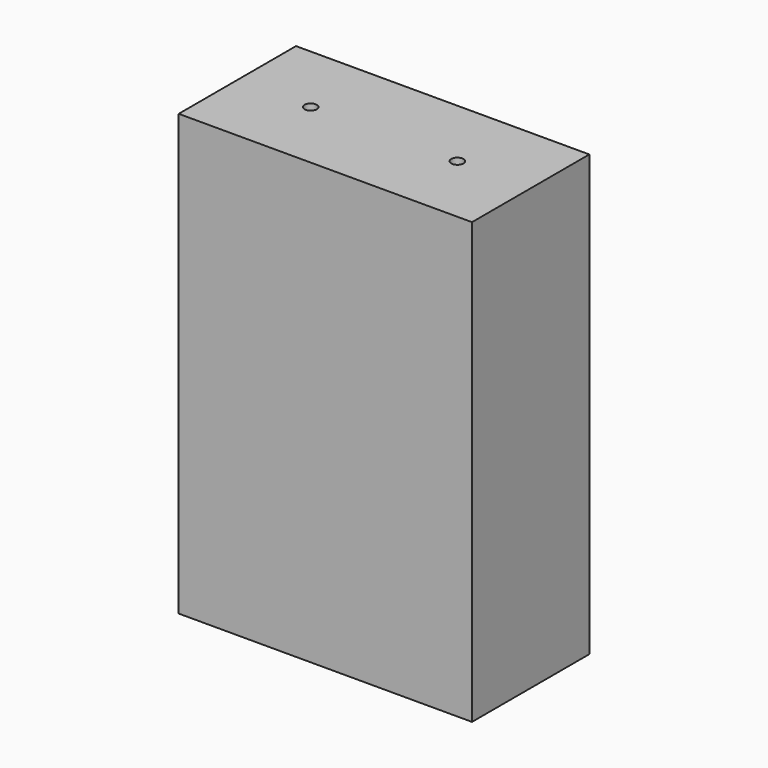
from build123d import *

# Parameters (mm, degrees)
F0_W     = 60
F0_H     = 30
F1_DEPTH = 90
F2_R     = 2.5
F3_DEPTH = 40
F4_R     = 1.25
F5_DEPTH = 40


with BuildPart() as f1:
    # F0 (on Top) → F1 (new body)
    with BuildSketch(Plane.XY):
        Rectangle(F0_W, F0_H)
    extrude(amount=F1_DEPTH)

    # F2 (on face) → F3 (cut)
    with BuildSketch(Plane(origin=(0, 0, 0), x_dir=(1, 0, 0), z_dir=(0, 0, -1))):
        Circle(F2_R)
    extrude(amount=-F3_DEPTH, mode=Mode.SUBTRACT)

    # F4 (on face) → F5 (cut)
    with BuildSketch(Plane.XY.offset(90)):
        with Locations((-15, 0)):
            Circle(F4_R)
        with Locations((15, 0)):
            Circle(F4_R)
    extrude(amount=-F5_DEPTH, mode=Mode.SUBTRACT)


solid = f1.part
